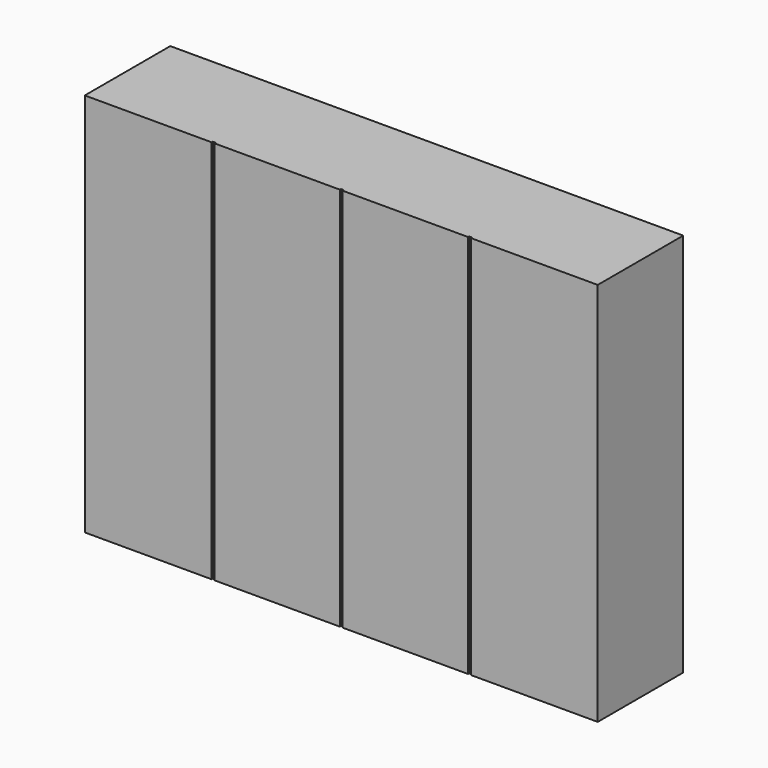
from build123d import *

# Parameters (mm, degrees)
F0_W     = 1219.2
F0_H     = 254
F1_DEPTH = 914.4
F2_W     = 6.35
F2_H     = 914.4
F3_DEPTH = 3.175


with BuildPart() as f1:
    # F0 (on Top) → F1 (new body)
    with BuildSketch(Plane.XY):
        with Locations((609.6, -127)):
            Rectangle(F0_W, F0_H)
    extrude(amount=F1_DEPTH)

    # F2 (on face) → F3 (cut)
    with BuildSketch(Plane.XZ.offset(254)):
        with Locations((609.6, 457.2)):
            Rectangle(F2_W, F2_H)
        with Locations((914.4, 457.2)):
            Rectangle(F2_W, F2_H)
        with Locations((304.8, 457.2)):
            Rectangle(F2_W, F2_H)
    extrude(amount=-F3_DEPTH, mode=Mode.SUBTRACT)


solid = f1.part
